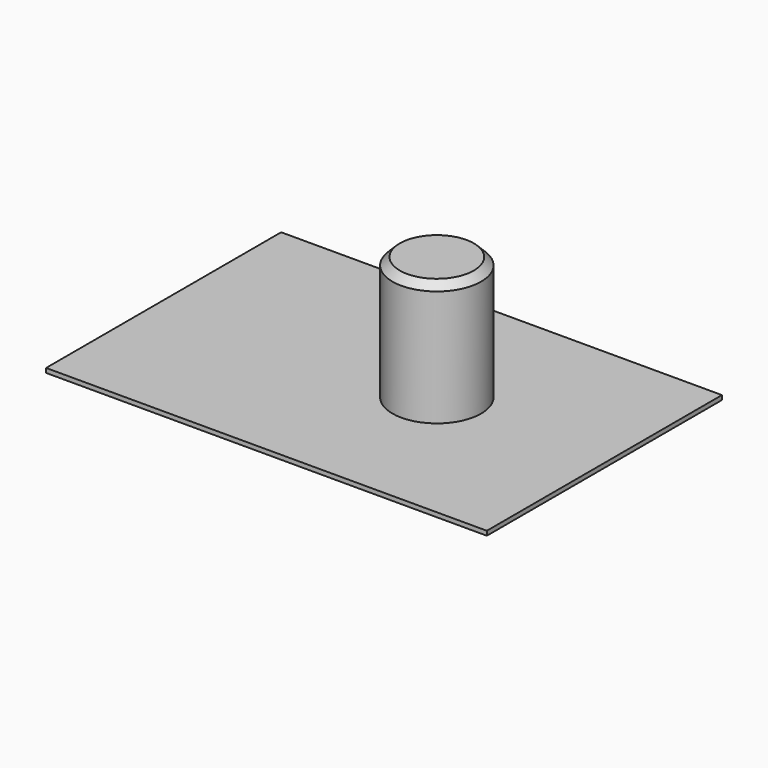
from build123d import *

# Parameters (mm, degrees)
F2_SIZE  = 5
F3_W     = 300
F3_H     = 200
F4_DEPTH = 3


with BuildPart() as f1:
    # F0 (on Front) → F1 (revolve)
    with BuildSketch(Plane.XZ):
        Polygon((0, -33.58452), (0, 0), (0, 87.06548), (-30.1625, 87.06548), (-30.1625, -33.58452), align=None)
    revolve(axis=Axis((0, 0, 43.53274), (0, 0, -1)))

    # F2
    f2_edges = [f1.edges().sort_by_distance(p)[0] for p in [
        (30.1625, 0, 87.06548),
        (30.1625, 0, -33.58452),
    ]]
    chamfer(f2_edges, length=F2_SIZE)


with BuildPart() as f4:
    # F3 (on Top) → F4 (new body)
    with BuildSketch(Plane.XY):
        with Locations((-33.24757, -3.391966)):
            Rectangle(F3_W, F3_H)
    extrude(amount=F4_DEPTH)


solid = Compound([f1.part, f4.part])
